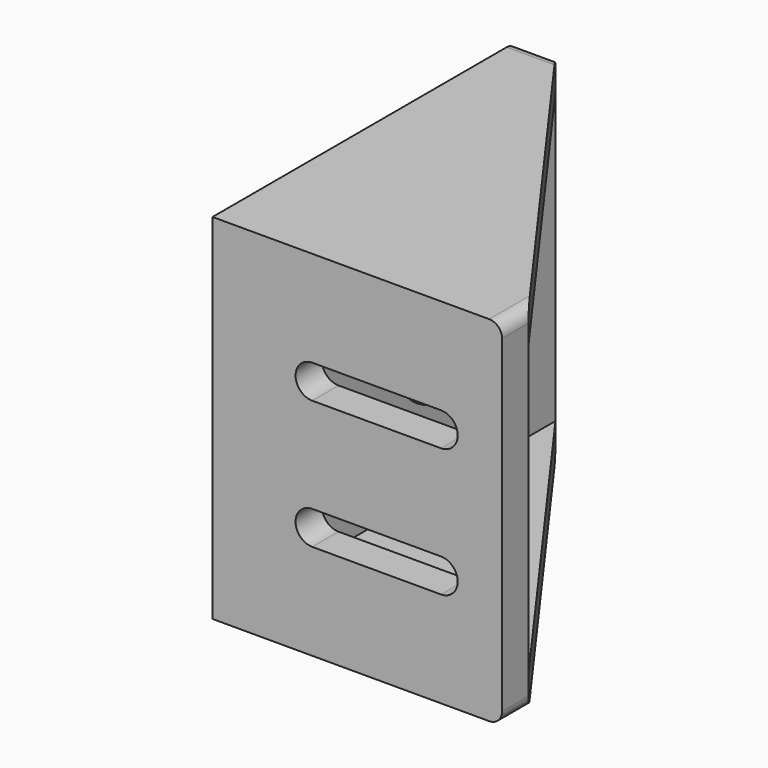
from build123d import *

# Parameters (mm, degrees)
PAD_DEPTH       = 55
SKETCH001_W     = 39
SKETCH001_H     = 45
POCKET_DEPTH    = 54
SKETCH002_R     = 11
SKETCH002_R_2   = 1.6
POCKET001_DEPTH = 45.001
POCKET002_DEPTH = 6.001
FILLET_R        = 2
SKETCH004_W     = 0.885
SKETCH004_H     = 58.852348
POCKET003_DEPTH = 45.001


with BuildPart() as part:
    # Sketch → Pad (new body)
    with BuildSketch(Plane.XY):
        Polygon((0, 0), (0, 60), (6, 60), (45, 6), (45, 0), align=None)
    extrude(amount=PAD_DEPTH)

    # Sketch001 (on Face2 of Pad) → Pocket (cut)
    with BuildSketch(Plane(origin=(0, 60, 0), x_dir=(-1, 0, 0), z_dir=(0, 1, 0))):
        with Locations((-25.5, 27.5)):
            Rectangle(SKETCH001_W, SKETCH001_H)
    extrude(amount=-POCKET_DEPTH, mode=Mode.SUBTRACT)

    # Sketch002 (on Face1 of Pocket) → Pocket001 (cut, through all)
    with BuildSketch(Plane(origin=(0, 0, 0), x_dir=(0, -1, 0), z_dir=(-1, 0, 0))):
        with Locations((-39.2, 27.5)):
            Circle(SKETCH002_R)
        with Locations((-54.2, 27.5)):
            Circle(SKETCH002_R_2)
        with Locations((-31.7, 40.4904)):
            Circle(SKETCH002_R_2)
        with Locations((-31.7, 14.5096)):
            Circle(SKETCH002_R_2)
    extrude(amount=-POCKET001_DEPTH, mode=Mode.SUBTRACT)

    # Sketch003 (on Face14 of Pocket001) → Pocket002 (cut, through all)
    with BuildSketch(Plane(origin=(0, 6, 0), x_dir=(-1, 0, 0), z_dir=(0, 1, 0))):
        with BuildLine():
            ThreePointArc((-35.5, 40.1), (-38.1, 37.5), (-35.5, 34.9))
            Line((-35.5, 34.9), (-15.5, 34.9))
            ThreePointArc((-15.5, 34.9), (-12.9, 37.5), (-15.5, 40.1))
            Line((-15.5, 40.1), (-35.5, 40.1))
        make_face()
        with BuildLine():
            ThreePointArc((-35.5, 20.1), (-38.1, 17.5), (-35.5, 14.9))
            Line((-35.5, 14.9), (-15.5, 14.9))
            ThreePointArc((-15.5, 14.9), (-12.9, 17.5), (-15.5, 20.1))
            Line((-15.5, 20.1), (-35.5, 20.1))
        make_face()
    extrude(amount=-POCKET002_DEPTH, mode=Mode.SUBTRACT)

    # Fillet
    fillet_edges = [part.edges().sort_by_distance(p)[0] for p in [
        (3, 60, 55),
        (3, 60, 0),
        (45, 3, 0),
        (45, 3, 55),
    ]]
    fillet(fillet_edges, radius=FILLET_R)

    # Sketch004 (on Face14 of Fillet) → Pocket003 (cut, through all)
    with BuildSketch(Plane.YZ.offset(45)):
        with Locations((0.4425, 29.426174)):
            Rectangle(SKETCH004_W, SKETCH004_H)
    extrude(amount=-POCKET003_DEPTH, mode=Mode.SUBTRACT)


solid = part.part
